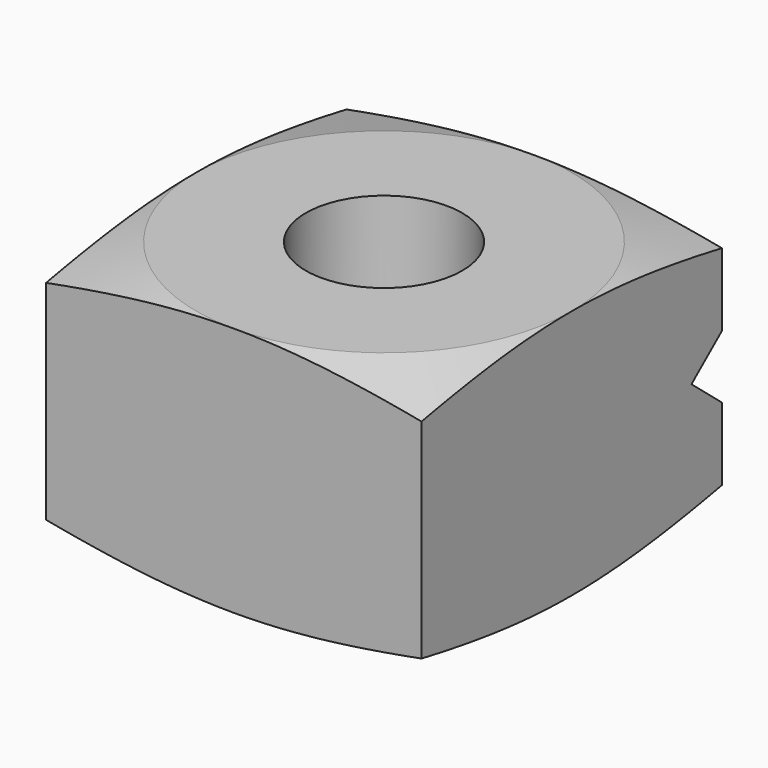
from build123d import *

# Parameters (mm, degrees)
F0_W     = 19.05
F0_H     = 19.05
F1_DEPTH = 6.35
F2_R     = 3.96875
F3_DEPTH = 12.7
F6_DEPTH = 19.05


with BuildPart() as f1:
    # F0 (on Top) → F1 (new body)
    with BuildSketch(Plane.XY):
        with Locations((9.525, 9.525)):
            Rectangle(F0_W, F0_H)
    extrude(amount=F1_DEPTH)

    # F2 (on face) → F3 (cut)
    with BuildSketch(Plane.XY.offset(6.35)):
        with Locations((9.525, 9.525)):
            Circle(F2_R)
    extrude(amount=-F3_DEPTH, mode=Mode.SUBTRACT)

    # F5 (on face) → F6 (cut)
    with BuildSketch(Plane.YZ.offset(19.05)):
        Polygon((17.1196, 0), (19.05, 0), (19.05, 1.6002), align=None)
    extrude(amount=-F6_DEPTH, mode=Mode.SUBTRACT)

    # F9: sweep along a path in F4
    with BuildLine(Plane.XY.offset(6.35)) as f9_path:
        CenterArc((9.525, 9.525), 9.525, 0, 360)
    # F8 (on mid) → F9 (sweep, cut)
    with BuildSketch(Plane(origin=(9.525, 0, 0), x_dir=(0, -1, 0), z_dir=(-1, 0, 0))):
        Polygon((-28.4483358264, 3.8317235051), (-19.05, 6.35), (-28.4483358264, 6.35), align=None)
    sweep(path=f9_path.line, mode=Mode.SUBTRACT)

    # F10: F1 across face


with BuildPart() as f1_1:
    add(f1.part)
    add(f1.part.mirror(Plane(origin=(9.525, 8.3871560005, 0), x_dir=(1, 0, 0), z_dir=(0, 0, -1))))


solid = f1_1.part
